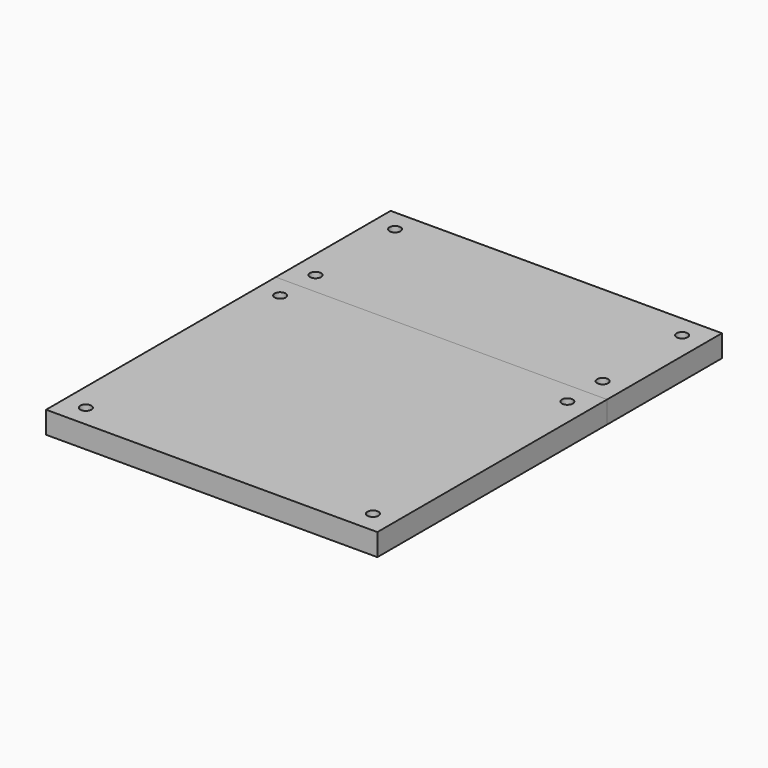
from build123d import *

# Parameters (mm, degrees)
SKETCH_W            = 150
SKETCH_H            = 65
SKETCH_W_2          = 101
SKETCH_H_2          = 51
PAD_DEPTH           = 1.5
SKETCH001_W         = 150
SKETCH001_H         = 65
PAD001_DEPTH        = 8.5
HOLE_D              = 5
HOLE_DEPTH          = 25
HOLE_CSINK_D        = 10
HOLE_CSINK_ANGLE    = 90
SKETCH003_W         = 150
SKETCH003_H         = 130
SKETCH003_W_2       = 111
SKETCH003_H_2       = 111
PAD002_DEPTH        = 1.5
SKETCH004_W         = 150
SKETCH004_H         = 130
PAD003_DEPTH        = 8.5
HOLE001_D           = 5
HOLE001_DEPTH       = 25
HOLE001_CSINK_D     = 10
HOLE001_CSINK_ANGLE = 90


with BuildPart() as stamping_jig:
    # Sketch → Pad (new body)
    with BuildSketch(Plane.XY):
        Rectangle(SKETCH_W, SKETCH_H)
        Rectangle(SKETCH_W_2, SKETCH_H_2, mode=Mode.SUBTRACT)
    extrude(amount=PAD_DEPTH)

    # Sketch001 (on Face10 of Pad) → Pad001 (join)
    with BuildSketch(Plane.XY.offset(1.5)):
        Rectangle(SKETCH001_W, SKETCH001_H)
    extrude(amount=PAD001_DEPTH)

    # Hole
    with Locations(Plane(origin=(0, 0, 0), x_dir=(1, 0, 0), z_dir=(0, 0, -1))):
        with Locations((-65, 22.5), (-65, -22.5), (65, 22.5), (65, -22.5)):
            CounterSinkHole(HOLE_D / 2, HOLE_CSINK_D / 2, depth=HOLE_DEPTH, counter_sink_angle=HOLE_CSINK_ANGLE)


with BuildPart() as stamping_jig_1:
    # Body placement: moved
    add(stamping_jig.part.moved(Location((0, 97.5, 0))))


with BuildPart() as stamping_jig001:
    # Sketch003 → Pad002 (new body)
    with BuildSketch(Plane.XY):
        Rectangle(SKETCH003_W, SKETCH003_H)
        Rectangle(SKETCH003_W_2, SKETCH003_H_2, mode=Mode.SUBTRACT)
    extrude(amount=PAD002_DEPTH)

    # Sketch004 (on Face10 of Pad002) → Pad003 (join)
    with BuildSketch(Plane.XY.offset(1.5)):
        Rectangle(SKETCH004_W, SKETCH004_H)
    extrude(amount=PAD003_DEPTH)

    # Hole001
    with Locations(Plane(origin=(0, 0, 0), x_dir=(1, 0, 0), z_dir=(0, 0, -1))):
        with Locations((-65, 55), (65, 55), (65, -55), (-65, -55)):
            CounterSinkHole(HOLE001_D / 2, HOLE001_CSINK_D / 2, depth=HOLE001_DEPTH, counter_sink_angle=HOLE001_CSINK_ANGLE)


solid = Compound([stamping_jig_1.part, stamping_jig001.part])
